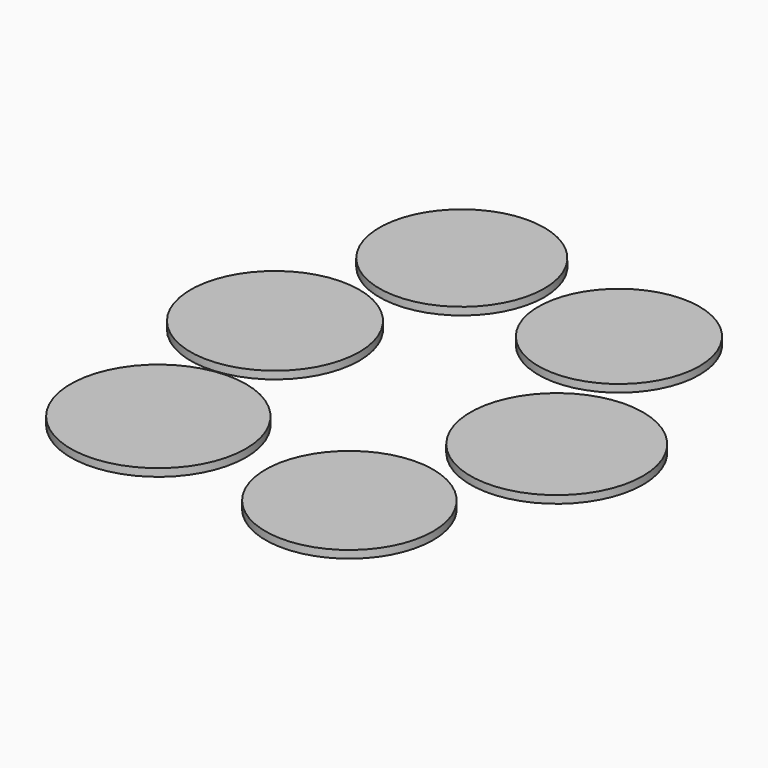
from build123d import *

# Parameters (mm, degrees)
F0_R     = 10.925
F0_R_2   = 11.25
F0_R_3   = 10.5
F0_R_4   = 10.75
F0_R_5   = 11
F0_R_6   = 11.425
F1_DEPTH = 1


with BuildPart() as f1:
    # F0 (on Top) → F1 (new body)
    with BuildSketch(Plane.XY):
        with Locations((11.346984, -20.657329)):
            Circle(F0_R)
        with Locations((20.075433, 2.230603)):
            Circle(F0_R_2)
        with Locations((10.18319, 24.730604)):
            Circle(F0_R_3)
        with Locations((-13.092673, 28.221983)):
            Circle(F0_R_4)
        with Locations((-19.299569, 5.528017)):
            Circle(F0_R_5)
        with Locations((-15.420259, -18.329743)):
            Circle(F0_R_6)
    extrude(amount=F1_DEPTH)


solid = f1.part
